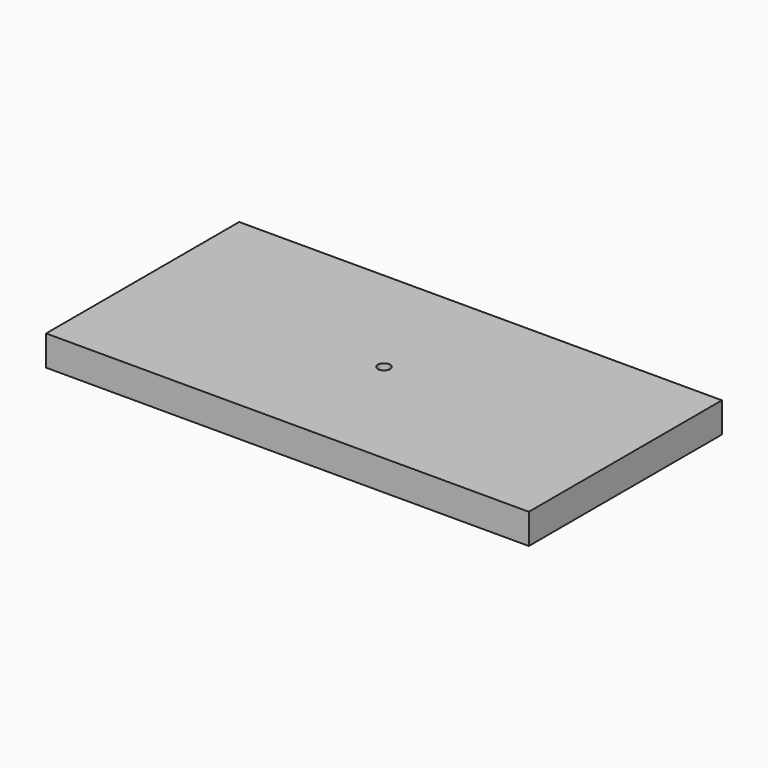
from build123d import *

# Parameters (mm, degrees)
F0_W           = 203.2
F0_H           = 101.6
F1_DEPTH       = 12.7
F3_D           = 5.1054
F3_CSINK_D     = 10.4394
F3_CSINK_ANGLE = 82


with BuildPart() as f1:
    # F0 (on Top) → F1 (new body)
    with BuildSketch(Plane.XY):
        Rectangle(F0_W, F0_H)
    extrude(amount=F1_DEPTH)

    # F3 (through all)
    with Locations(Plane(origin=(0, 0, 0), x_dir=(1, 0, 0), z_dir=(0, 0, -1))):
        with Locations((0, 0)):
            CounterSinkHole(F3_D / 2, F3_CSINK_D / 2, counter_sink_angle=F3_CSINK_ANGLE)


solid = f1.part
